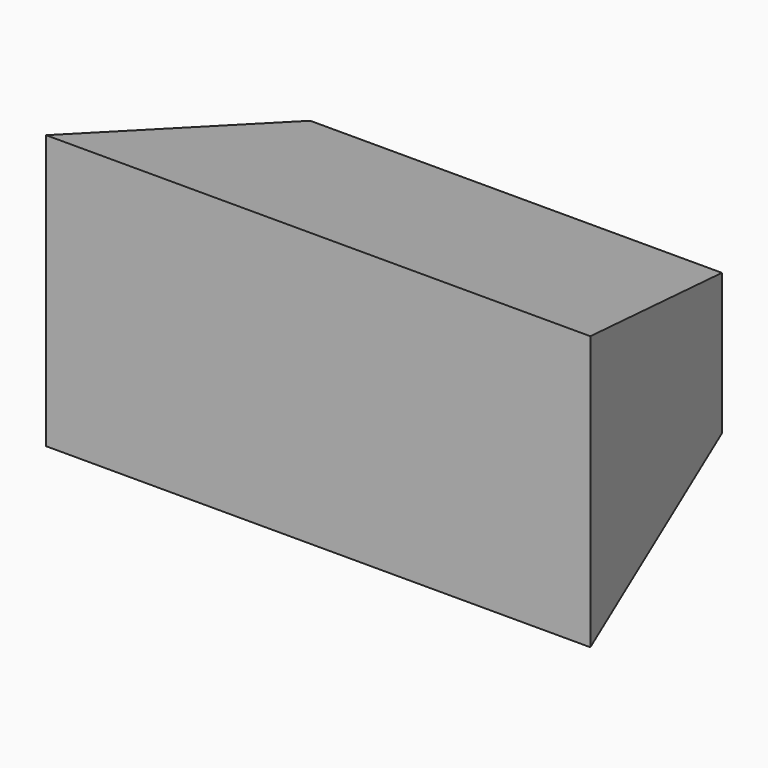
from build123d import *

# Parameters (mm, degrees)
F0_W     = 42.2850772738
F0_H     = 14.509585686
F1_DEPTH = 25.4
F1_TAPER = -15


with BuildPart() as f1:
    # F0 (on Front) → F1 (new body)
    with BuildSketch(Plane.XZ):
        with Locations((21.1425386369, 7.254792843)):
            Rectangle(F0_W, F0_H)
    extrude(amount=F1_DEPTH, taper=F1_TAPER)


solid = f1.part
